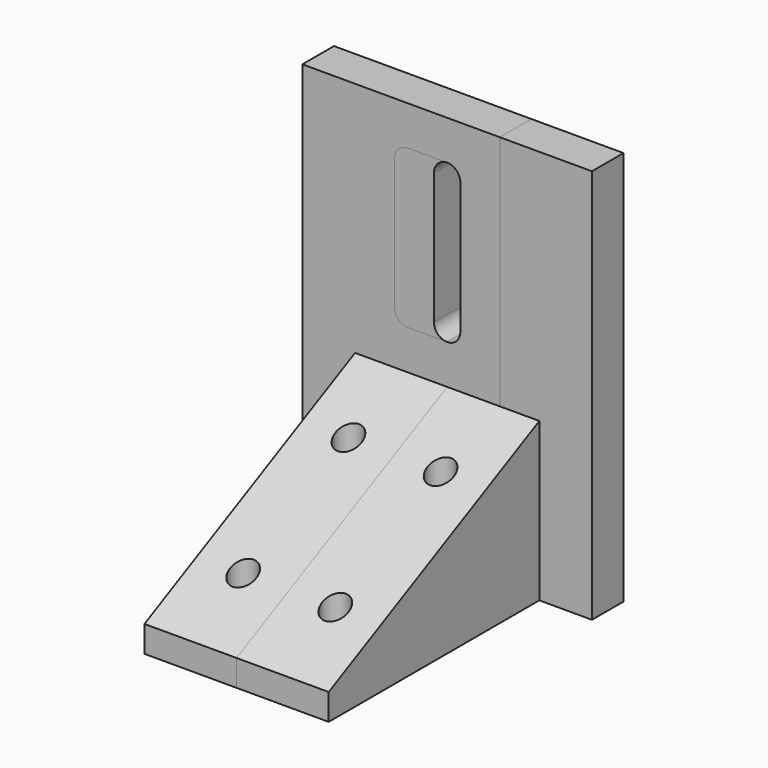
from build123d import *

# Parameters (mm, degrees)
F0_W     = 7
F0_H     = 20
F0_R     = 1
F1_DEPTH = 12
F3_DEPTH = 30
F5_DEPTH = 10
F7_DEPTH = 25.4


with BuildPart() as f1:
    # F0 (on Top) → F1 (new body)
    with BuildSketch(Plane.XY):
        with Locations((3.5, 10)):
            Rectangle(F0_W, F0_H)
        with Locations((3.5, 5)):
            Circle(F0_R, mode=Mode.SUBTRACT)
        with Locations((3.5, 15)):
            Circle(F0_R, mode=Mode.SUBTRACT)
    extrude(amount=F1_DEPTH)

    # F2 (on Top) → F3 (join)
    with BuildSketch(Plane.XY):
        Polygon((-4, 20), (7, 20), (11, 20), (11, 23), (7, 23), (-4, 23), align=None)
    extrude(amount=F3_DEPTH)

    # F4 (on Right) → F5 (cut)
    with BuildSketch(Plane.YZ):
        Polygon((0, 2), (20, 12), (0, 12), align=None)
    extrude(amount=F5_DEPTH, mode=Mode.SUBTRACT)

    # F6 (on Front) → F7 (cut)
    with BuildSketch(Plane.XZ):
        with BuildLine():
            Line((0, 15), (3, 15))
            ThreePointArc((3, 15), (3.707107, 15.292893), (4, 16))
            Line((4, 16), (4, 26))
            ThreePointArc((4, 26), (3.707107, 26.707107), (3, 27))
            Line((3, 27), (0, 27))
            ThreePointArc((0, 27), (-0.707107, 26.707107), (-1, 26))
            Line((-1, 26), (-1, 16))
            ThreePointArc((-1, 16), (-0.707107, 15.292893), (0, 15))
        make_face()
    extrude(amount=-F7_DEPTH, mode=Mode.SUBTRACT)


with BuildPart() as f8_1:
    # F8: instance of F1
    add(f1.part.mirror(Plane.YZ))


solid = Compound([f1.part, f8_1.part])
